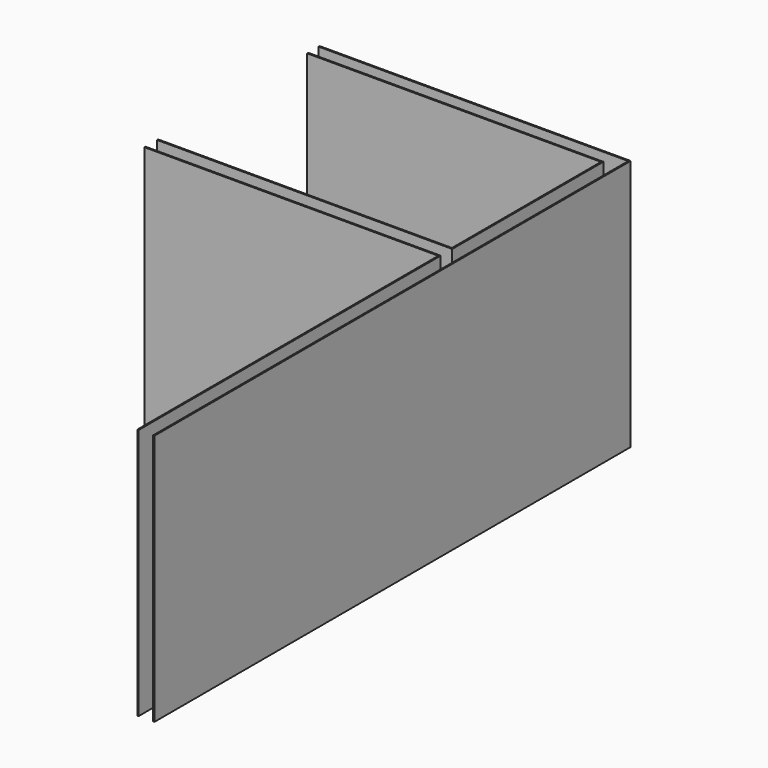
from build123d import *

# Parameters (mm, degrees)
F1_DEPTH  = 2578.1
F2_T      = -203.2
F3_W      = 1219.2
F3_H      = 1422.4
F5_DEPTH  = 203.2
F4_W      = 139.7
F4_H      = 38.1
F4_W_2    = 38.1
F4_H_2    = 139.7
F6_DEPTH  = 2349.5
F8_DEPTH  = 2438.4
F9_DEPTH  = 152.4
F11_DEPTH = 12.7
F14_DEPTH = 2438.4


with BuildPart() as f1:
    # F0 (on Top) → F1 (new body)
    with BuildSketch(Plane.XY):
        Polygon((-2286, 16078.2), (-8280.4, 16078.2), (-8280.4, 13922.375), (-9406.501324, 13223.08125), (-9406.501324, 8900.31875), (-8280.4, 8201.025), (-8280.4, 2286), (-5283.2, 2286), (-5283.2, 0), (0, 0), (0, 7162.8), (-2286, 7162.8), align=None)
    extrude(amount=F1_DEPTH)

    # F2
    f2_openings = [f1.faces().sort_by_distance(p)[0] for p in [
        (-4762.628229, 7961.579676, 2578.1),
    ]]
    offset(amount=F2_T, openings=f2_openings)

    # F3 (on face) → F5 (cut, through all)
    with BuildSketch(Plane(origin=(0, 2489.2, 0), x_dir=(-1, 0, 0), z_dir=(0, 1, 0))):
        with Locations((6578.6, 1612.9)):
            Rectangle(F3_W, F3_H)
    extrude(amount=-F5_DEPTH, mode=Mode.SUBTRACT)

    # F4 (on face) → F6 (join)
    with BuildSketch(Plane.XY.offset(203.2)):
        with Locations((-8007.35, 13830.957576)):
            Rectangle(F4_W, F4_H)
        with Locations((-7915.91, 15805.15)):
            Rectangle(F4_W_2, F4_H_2)
        with Locations((-8007.35, 15713.71)):
            Rectangle(F4_W, F4_H)
        with Locations((-2650.49, 15805.15)):
            Rectangle(F4_W_2, F4_H_2)
        with Locations((-2559.05, 15713.71)):
            Rectangle(F4_W, F4_H)
        Polygon((-8004.521439, 13690.055561), (-8078.219463, 13808.734503), (-8110.586447, 13788.635042), (-8036.888423, 13669.9561), align=None)
        with Locations((-9133.451324, 12650.420544)):
            Rectangle(F4_W, F4_H)
        Polygon((-9129.93616, 13155.632604), (-9162.303144, 13135.533143), (-9088.60512, 13016.854201), (-9056.238136, 13036.953662), align=None)
        Polygon((-9116.524442, 9061.586174), (-9162.303144, 8987.866857), (-9129.93616, 8967.767396), (-9071.675963, 9061.586174), align=None)
        Polygon((-9203.301324, 9061.586174), (-9116.524442, 9061.586174), (-9092.864855, 9099.686174), (-9203.301324, 9099.686174), align=None)
        Polygon((-9088.60512, 9106.545799), (-9092.864855, 9099.686174), (-9077.558786, 9099.686174), align=None)
        Polygon((-9063.601324, 9074.589095), (-9071.675963, 9061.586174), (-9063.601324, 9061.586174), align=None)
        Polygon((-9063.601324, 9099.686174), (-9077.558786, 9099.686174), (-9063.601324, 9091.018778), align=None)
        Polygon((-9063.601324, 9091.018778), (-9063.601324, 9074.589095), (-9056.238136, 9086.446338), align=None)
        Polygon((-8035.86896, 8452.810827), (-8109.566984, 8334.131885), (-8077.2, 8314.032424), (-8003.501976, 8432.711366), align=None)
        with Locations((-8007.35, 8292.442424)):
            Rectangle(F4_W, F4_H)
        with Locations((-8007.35, 2650.49)):
            Rectangle(F4_W, F4_H)
        with Locations((-7915.91, 2559.05)):
            Rectangle(F4_W_2, F4_H_2)
        with Locations((-5101.59, 2559.05)):
            Rectangle(F4_W_2, F4_H_2)
        with Locations((-5010.15, 2467.61)):
            Rectangle(F4_W, F4_H)
        with Locations((-5010.15, 364.49)):
            Rectangle(F4_W, F4_H)
        with Locations((-4918.71, 273.05)):
            Rectangle(F4_W_2, F4_H_2)
        with Locations((-364.49, 273.05)):
            Rectangle(F4_W_2, F4_H_2)
        with Locations((-273.05, 364.49)):
            Rectangle(F4_W, F4_H)
        with Locations((-273.05, 6798.31)):
            Rectangle(F4_W, F4_H)
        with Locations((-364.49, 6889.75)):
            Rectangle(F4_W_2, F4_H_2)
    extrude(amount=F6_DEPTH)


with BuildPart() as f8:
    # F7 (on face) → F8 (new body)
    with BuildSketch(Plane.XY.offset(203.2)):
        Polygon((-9063.601324, 9091.018778), (-7937.5, 8391.725028), (-7937.5, 2641.6), (-7937.5, 2628.9), (-7924.8, 2628.9), (-4940.3, 2628.9), (-4940.3, 355.6), (-4940.3, 342.9), (-4927.6, 342.9), (-355.6, 342.9), (-342.9, 342.9), (-342.9, 355.6), (-342.9, 6019.579635), (-355.6, 6019.579635), (-355.6, 355.6), (-4927.6, 355.6), (-4927.6, 2628.9), (-4927.6, 2641.6), (-4940.3, 2641.6), (-7924.8, 2641.6), (-7924.8, 8391.725028), (-7924.8, 8398.787992), (-9050.901324, 9098.081742), (-9050.901324, 13025.318258), (-7924.8, 13724.612008), (-7924.8, 15722.6), (-2641.6, 15722.6), (-2641.6, 11339.577675), (-2628.9, 11339.577675), (-2628.9, 15735.3), (-7937.5, 15735.3), (-7937.5, 13731.674972), (-9063.601324, 13032.381222), align=None)
    extrude(amount=F8_DEPTH)

    # F3 (on face) → F9 (cut, through all)
    with BuildSketch(Plane(origin=(0, 2489.2, 0), x_dir=(-1, 0, 0), z_dir=(0, 1, 0))):
        with Locations((6578.6, 1612.9)):
            Rectangle(F3_W, F3_H)
    extrude(amount=F9_DEPTH, mode=Mode.SUBTRACT)


with BuildPart() as f11:
    # F10 (on Top) → F11 (new body)
    with BuildSketch(Plane.XY):
        Polygon((-8077.2, 8314.032424), (-8077.2, 2489.2), (-5080, 2489.2), (-5080, 203.2), (-203.2, 203.2), (-203.2, 5526.424885), (-342.9, 5526.424885), (-342.9, 342.9), (-4940.3, 342.9), (-4940.3, 2628.9), (-7937.5, 2628.9), (-7937.5, 8391.725028), (-9063.601324, 9091.018778), (-9063.601324, 13032.381222), (-7937.5, 13731.674972), (-7937.5, 15735.3), (-2628.9, 15735.3), (-2628.9, 11339.577675), (-2489.2, 11339.577675), (-2489.2, 15875), (-8077.2, 15875), (-8077.2, 13809.367576), (-9203.301324, 13110.073826), (-9203.301324, 9013.326174), align=None)
    extrude(amount=F11_DEPTH)


with BuildPart() as f14:
    # F13 (on Top) → F14 (new body)
    with BuildSketch(Plane.XY):
        Polygon((-5092.7, 2628.9), (-5080, 2628.9), (-5080, 6270.825028), (-5080, 6283.525028), (-5092.7, 6283.525028), (-7937.5, 6283.525028), (-7937.5, 6270.825028), (-5092.7, 6270.825028), align=None)
        Polygon((-7937.5, 6435.925028), (-7937.5, 6423.225028), (-5092.7, 6423.225028), (-5080, 6423.225028), (-5080, 6435.925028), (-5080, 8239.325028), (-5080, 8252.025028), (-5092.7, 8252.025028), (-7937.5, 8252.025028), (-7937.5, 8239.325028), (-5092.7, 8239.325028), (-5092.7, 6435.925028), align=None)
        Polygon((-4940.3, 8379.025028), (-4940.3, 2628.9), (-4927.6, 2628.9), (-4927.6, 8379.025028), (-4927.6, 8391.725028), (-4940.3, 8391.725028), (-7937.5, 8391.725028), (-7937.5, 8379.025028), align=None)
    extrude(amount=F14_DEPTH)


solid = f14.part
